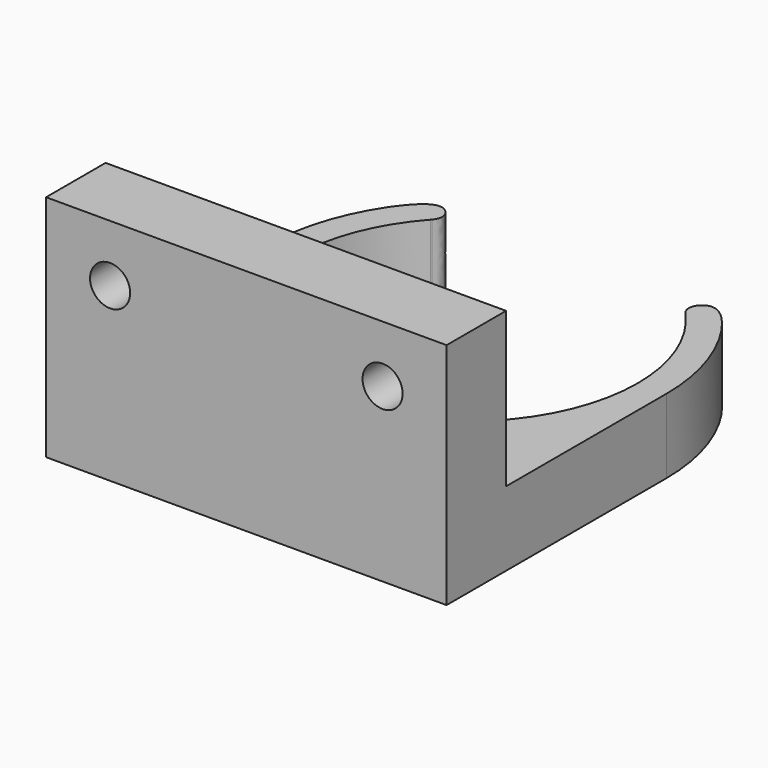
from build123d import *

# Parameters (mm, degrees)
F1_DEPTH = 13
F2_DEPTH = 40
F4_D     = 7


with BuildPart() as f1:
    # F0 (on Top) → F1 (new body)
    with BuildSketch(Plane.XY):
        with BuildLine():
            Line((30, 0), (35, 0))
            ThreePointArc((35, 0), (33.4744278282, 10.2206986834), (29.0307039098, 19.5504023104))
            add(Edge.make_bspline(
                [(29.0307039098, 19.5504023104), (27.7822040528, 21.275593448), (25.8954088148, 23.7212759458), (24.10664395, 23.9739441895)],
                knots=[0, 0, 0, 0, 0.5116358428, 0.5116358428, 0.5116358428, 0.5116358428], degree=3))
            Line((24.10664395, 23.9739441895), (23.5215793736, 23.9739441895))
            add(Edge.make_bspline(
                [(23.5215793736, 23.9739441895), (22.0865673396, 23.7581691141), (20.7707318469, 21.8685279115), (22.1448074946, 20.2387623393)],
                knots=[0.56784893, 0.56784893, 0.56784893, 0.56784893, 0.9854049804, 0.9854049804, 0.9854049804, 0.9854049804], degree=3))
            ThreePointArc((22.1448074946, 20.2387623393), (22.2219972589, 20.1539782134), (22.2988624189, 20.0688996914))
            ThreePointArc((22.2988624189, 20.0688996914), (28.0086225346, 10.7478864767), (30, 0))
        make_face()
        with BuildLine():
            Line((-35, -35), (0, -35))
            ThreePointArc((0, -35), (24.7487373415, -24.7487373415), (35, 0))
            Line((35, 0), (30, 0))
            ThreePointArc((30, 0), (0, -30), (-30, 0))
            ThreePointArc((-30, 0), (-28.0086225346, 10.7478864767), (-22.2988624189, 20.0688996914))
            ThreePointArc((-22.2988624189, 20.0688996914), (-22.2219972589, 20.1539782134), (-22.1448074946, 20.2387623393))
            add(Edge.make_bspline(
                [(-23.5215793736, 23.9739441895), (-22.0865673396, 23.7581691141), (-20.7707318469, 21.8685279115), (-22.1448074946, 20.2387623393)],
                knots=[0.56784893, 0.56784893, 0.56784893, 0.56784893, 0.9854049804, 0.9854049804, 0.9854049804, 0.9854049804], degree=3))
            Line((-23.5215793736, 23.9739441895), (-24.10664395, 23.9739441895))
            add(Edge.make_bspline(
                [(-29.0307039098, 19.5504023104), (-27.7822040528, 21.275593448), (-25.8954088148, 23.7212759458), (-24.10664395, 23.9739441895)],
                knots=[0, 0, 0, 0, 0.5116358428, 0.5116358428, 0.5116358428, 0.5116358428], degree=3))
            ThreePointArc((-29.0307039098, 19.5504023104), (-33.4744278282, 10.2206986834), (-35, 0))
            Line((-35, 0), (-35, -35))
        make_face()
        with BuildLine():
            ThreePointArc((35, 0), (24.7487373415, -24.7487373415), (0, -35))
            Line((0, -35), (35, -35))
            Line((35, -35), (35, 0))
        make_face()
        Polygon((35, -35), (0, -35), (-35, -35), (-35, -48), (35, -48), align=None)
    extrude(amount=F1_DEPTH)

    # F0 (on Top) → F2 (join)
    with BuildSketch(Plane.XY):
        Polygon((35, -35), (0, -35), (-35, -35), (-35, -48), (35, -48), align=None)
    extrude(amount=F2_DEPTH)

    # F4 (through all)
    with Locations(Plane(origin=(0, 0, 0), x_dir=(1, 0, 0), z_dir=(0, 1, 0))):
        with Locations((-23.8109529018, -30.0336983055), (23.8109529018, -30.0336983055)):
            Hole(F4_D / 2)


solid = f1.part
